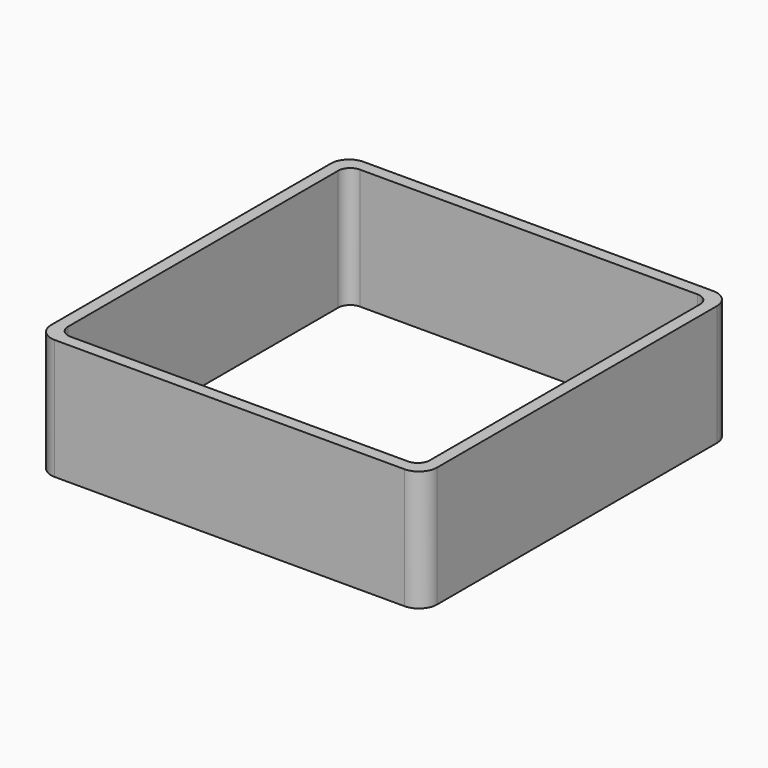
from build123d import *

# Parameters (mm, degrees)
EXTRUDE_DEPTH = 50


with BuildPart() as part:
    # Sketch → Extrude (new body)
    with BuildSketch(Plane.XY):
        with BuildLine():
            Line((-72.5, 80), (72.5, 80))
            ThreePointArc((80, 72.5), (77.803301, 77.803301), (72.5, 80))
            Line((80, 72.5), (80, -72.5))
            ThreePointArc((72.5, -80), (77.803301, -77.803301), (80, -72.5))
            Line((72.5, -80), (-72.5, -80))
            ThreePointArc((-80, -72.5), (-77.803301, -77.803301), (-72.5, -80))
            Line((-80, -72.5), (-80, 72.5))
            ThreePointArc((-72.5, 80), (-77.803301, 77.803301), (-80, 72.5))
        make_face()
        with BuildLine():
            Line((-70, 75), (70, 75))
            ThreePointArc((75, 70), (73.535534, 73.535534), (70, 75))
            Line((75, 70), (75, -70))
            ThreePointArc((70, -75), (73.535534, -73.535534), (75, -70))
            Line((70, -75), (-70, -75))
            ThreePointArc((-75, -70), (-73.535534, -73.535534), (-70, -75))
            Line((-75, -70), (-75, 70))
            ThreePointArc((-70, 75), (-73.535534, 73.535534), (-75, 70))
        make_face(mode=Mode.SUBTRACT)
    extrude(amount=EXTRUDE_DEPTH)


solid = part.part
